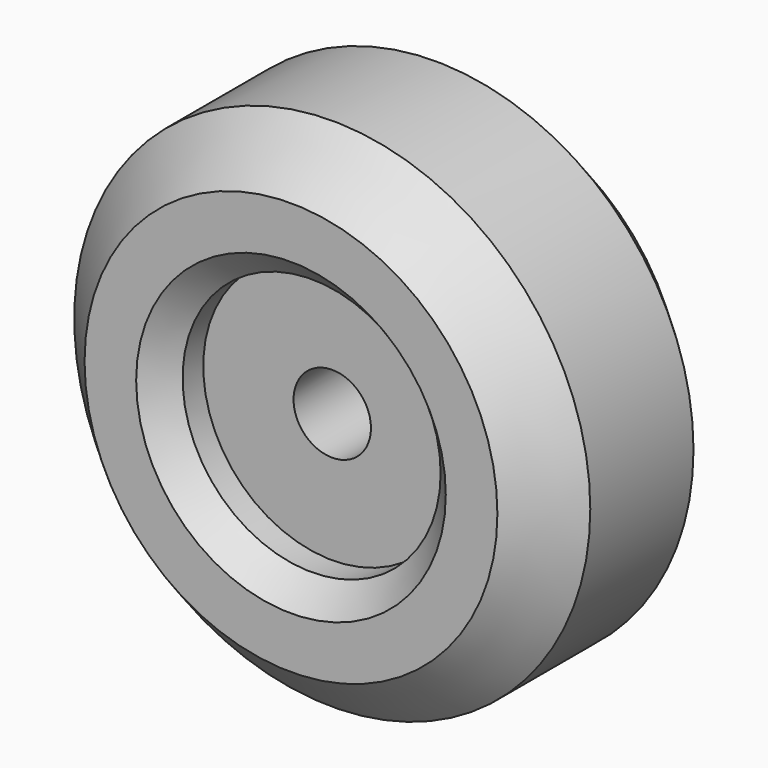
from build123d import *

# Parameters (mm, degrees)
F0_R     = 50
F0_R_2   = 25
F1_DEPTH = 22.5
F0_R_3   = 7.5
F2_DEPTH = 12.5
F3_SIZE  = 10
F4_SIZE  = 5


with BuildPart() as f1:
    # F0 (on Front) → F1 (new body, symmetric)
    with BuildSketch(Plane.XZ):
        Circle(F0_R)
        Circle(F0_R_2, mode=Mode.SUBTRACT)
    extrude(amount=F1_DEPTH, both=True)

    # F0 (on Front) → F2 (join, symmetric)
    with BuildSketch(Plane.XZ):
        Circle(F0_R_2)
        Circle(F0_R_3, mode=Mode.SUBTRACT)
    extrude(amount=F2_DEPTH, both=True)

    # F3
    f3_edges = [f1.edges().sort_by_distance(p)[0] for p in [
        (-50, -22.5, 0),
        (-50, 22.5, 0),
    ]]
    chamfer(f3_edges, length=F3_SIZE)

    # F4
    f4_edges = [f1.edges().sort_by_distance(p)[0] for p in [
        (-25, -22.5, 0),
        (-25, 22.5, 0),
    ]]
    chamfer(f4_edges, length=F4_SIZE)


solid = f1.part
